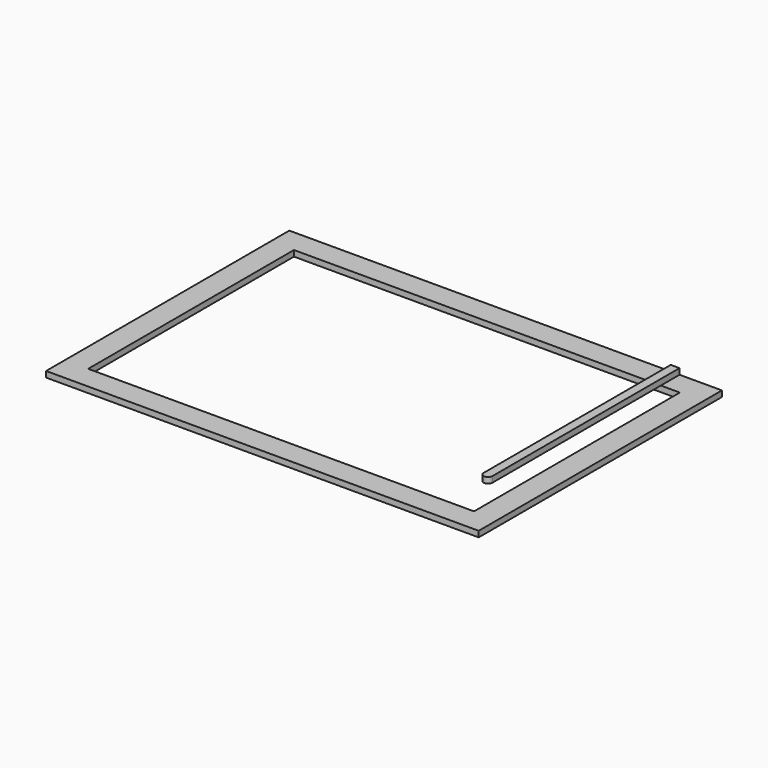
from build123d import *

# Parameters (mm, degrees)
F0_W     = 1879.6
F0_H     = 1320.8
F0_W_2   = 1676.4
F0_H_2   = 1117.6
F1_DEPTH = 25.4
F3_DEPTH = 25.4


with BuildPart() as f1:
    # F0 (on Top) → F1 (new body)
    with BuildSketch(Plane.XY):
        with Locations((939.8, -660.4)):
            Rectangle(F0_W, F0_H)
        with Locations((939.8, -660.4)):
            Rectangle(F0_W_2, F0_H_2, mode=Mode.SUBTRACT)
    extrude(amount=F1_DEPTH)


with BuildPart() as f3:
    # F2 (on face) → F3 (new body)
    with BuildSketch(Plane.XY.offset(25.4)):
        with BuildLine():
            Line((1695.45, 0), (1657.35, 0))
            Line((1657.35, 0), (1657.35, -1016))
            ThreePointArc((1657.35, -1016), (1676.4, -996.95), (1695.45, -1016))
            Line((1695.45, -1016), (1695.45, 0))
        make_face()
        with BuildLine():
            ThreePointArc((1695.45, -1016), (1676.4, -996.95), (1657.35, -1016))
            Line((1657.35, -1016), (1695.45, -1016))
        make_face()
        with BuildLine():
            Line((1695.45, -1016), (1657.35, -1016))
            ThreePointArc((1657.35, -1016), (1676.4, -1035.05), (1695.45, -1016))
        make_face()
    extrude(amount=F3_DEPTH)


solid = Compound([f1.part, f3.part])
